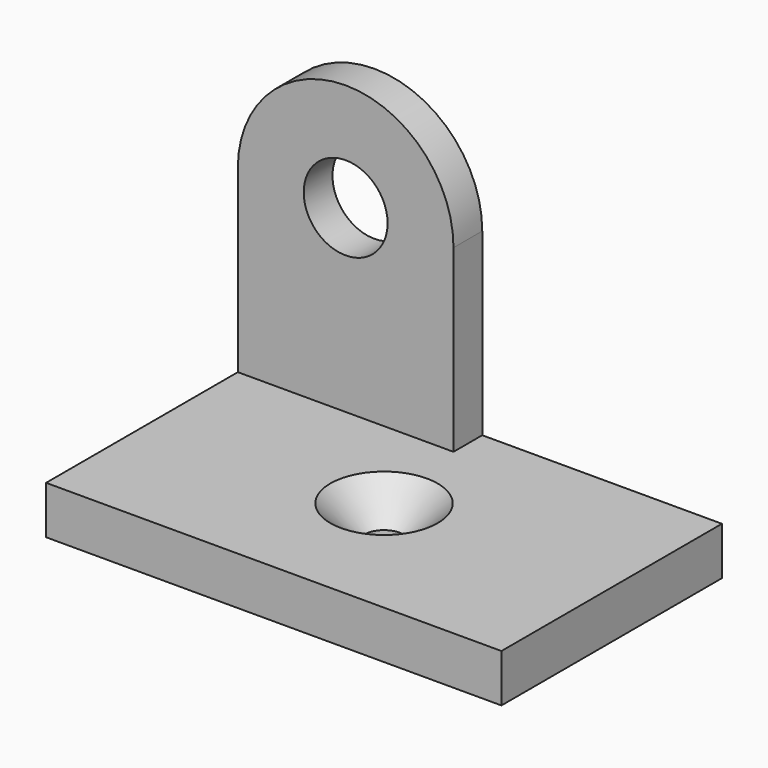
from build123d import *

# Parameters (mm, degrees)
F0_R           = 3.5
F1_DEPTH       = 3
F3_DEPTH       = 20
F5_D           = 3.3
F5_CSINK_D     = 8.96
F5_CSINK_ANGLE = 90


with BuildPart() as f1:
    # F0 (on Front) → F1 (new body)
    with BuildSketch(Plane.XZ):
        with BuildLine():
            Line((0, 19), (0, 0))
            Line((0, 0), (38, 0))
            Line((38, 0), (38, 4))
            Line((38, 4), (18, 4))
            Line((18, 4), (18, 19))
            ThreePointArc((18, 19), (9, 10), (0, 19))
        make_face()
        with BuildLine():
            ThreePointArc((18, 19), (9, 28), (0, 19))
            ThreePointArc((0, 19), (9, 10), (18, 19))
        make_face()
        with Locations((9, 19)):
            Circle(F0_R, mode=Mode.SUBTRACT)
    extrude(amount=F1_DEPTH)

    # F2 (on face) → F3 (join)
    with BuildSketch(Plane.XZ.offset(3)):
        Polygon((0, 0), (38, 0), (38, 4), (18, 4), (0, 4), align=None)
    extrude(amount=F3_DEPTH)

    # F5 (through all)
    with Locations(Plane.XY.offset(4)):
        with Locations((19, -11.5)):
            CounterSinkHole(F5_D / 2, F5_CSINK_D / 2, counter_sink_angle=F5_CSINK_ANGLE)


solid = f1.part
